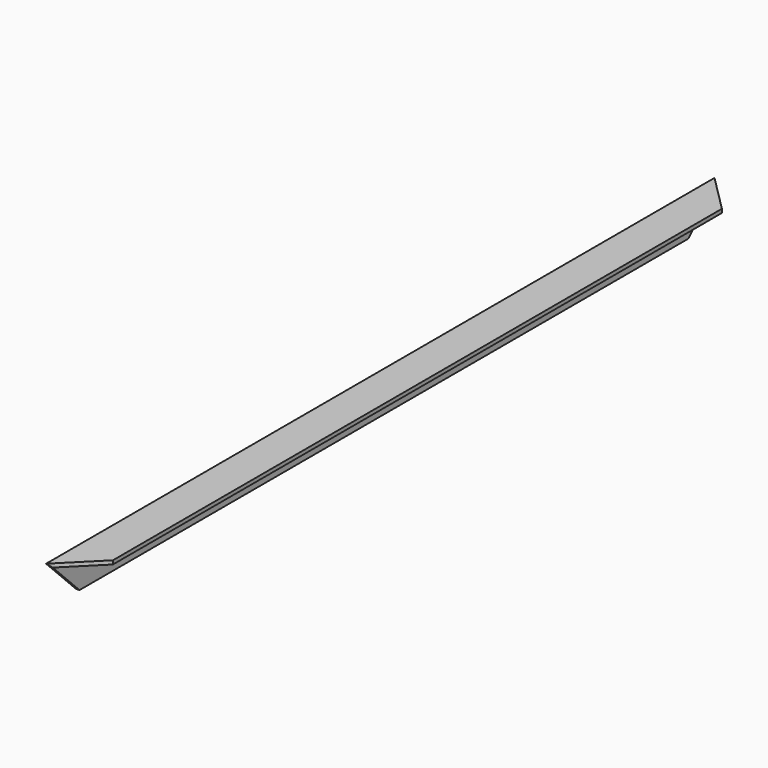
from build123d import *

# Parameters (mm, degrees)
F1_DEPTH = 450
F3_DEPTH = 40
F5_DEPTH = 40


with BuildPart() as f1:
    # F0 (on Front) → F1 (new body, symmetric)
    with BuildSketch(Plane.XZ):
        Polygon((0, 40), (0, 0), (4, 0), (4, 36), (40, 36), (40, 40), align=None)
    extrude(amount=F1_DEPTH, both=True)

    # F2 (on face) → F3 (cut)
    with BuildSketch(Plane(origin=(0, 0, 0), x_dir=(0, -1, 0), z_dir=(-1, 0, 0))):
        Polygon((-410, 0), (-450, 40), (-450, 0), align=None)
        Polygon((450, 0), (450, 40), (410, 0), align=None)
    extrude(amount=-F3_DEPTH, mode=Mode.SUBTRACT)

    # F4 (on face) → F5 (cut)
    with BuildSketch(Plane.XY.offset(40)):
        Polygon((40, 450), (0, 450), (40, 410), align=None)
        Polygon((40, -410), (0, -450), (40, -450), align=None)
    extrude(amount=-F5_DEPTH, mode=Mode.SUBTRACT)


solid = f1.part
